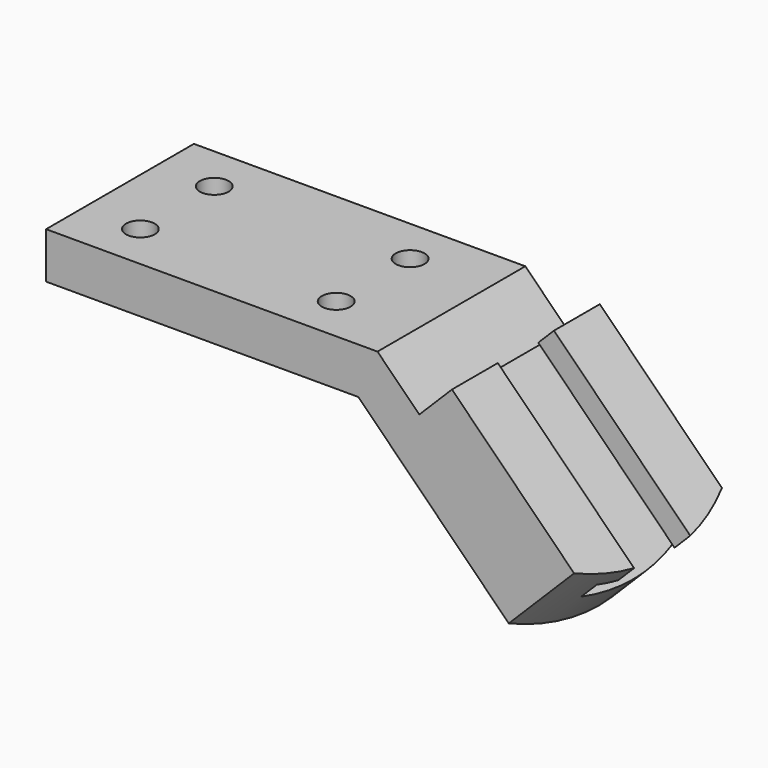
from build123d import *

# Parameters (mm, degrees)
F1_DEPTH = 25.4
F3_DEPTH = 134.531275
F5_DEPTH = 25.4
F6_R     = 3.9624
F7_DEPTH = 25.4


with BuildPart() as f1:
    # F0 (on Front) → F1 (new body, symmetric)
    with BuildSketch(Plane.XZ):
        Polygon((0, 12.7), (0, 0), (85.852, 0), (131.70327, -45.85127), (149.663782, -27.890758), (111.587496, 10.185528), (102.60724, 1.205272), (91.112512, 12.7), align=None)
    extrude(amount=F1_DEPTH, both=True)

    # F2 (on face) → F3 (cut, through all)
    with BuildSketch(Plane(origin=(88.77727, 0, -88.77727), x_dir=(0, 1, 0), z_dir=(0.707107, 0, -0.707107))):
        Polygon((9.652, 86.106531), (-9.652, 86.106531), (-9.652, 80.010531), (-15.748, 80.010531), (-15.748, 73.914531), (15.748, 73.914531), (15.748, 80.010531), (9.652, 80.010531), align=None)
    extrude(amount=-F3_DEPTH, mode=Mode.SUBTRACT)

    # F4 (on face) → F5 (cut)
    with BuildSketch(Plane(origin=(42.926, 0, 42.926), x_dir=(0.707107, 0, -0.707107), z_dir=(-0.707107, 0, -0.707107))):
        with BuildLine():
            ThreePointArc((119.183037, 25.4), (123.934026, 13.092922), (125.550019, 0))
            Line((125.550019, 0), (125.550019, 25.4))
            Line((125.550019, 25.4), (119.183037, 25.4))
        make_face()
        with BuildLine():
            ThreePointArc((125.550019, 0), (123.934026, -13.092922), (119.183037, -25.4))
            Line((119.183037, -25.4), (125.550019, -25.4))
            Line((125.550019, -25.4), (125.550019, 0))
        make_face()
    extrude(amount=-F5_DEPTH, mode=Mode.SUBTRACT)

    # F6 (on face) → F7 (cut)
    with BuildSketch(Plane.XY.offset(12.7)):
        with Locations((69.596, 12.7)):
            Circle(F6_R)
        with Locations((15.748, 12.7)):
            Circle(F6_R)
        with Locations((15.748, -12.7)):
            Circle(F6_R)
        with Locations((69.596, -12.7)):
            Circle(F6_R)
    extrude(amount=-F7_DEPTH, mode=Mode.SUBTRACT)


solid = f1.part
